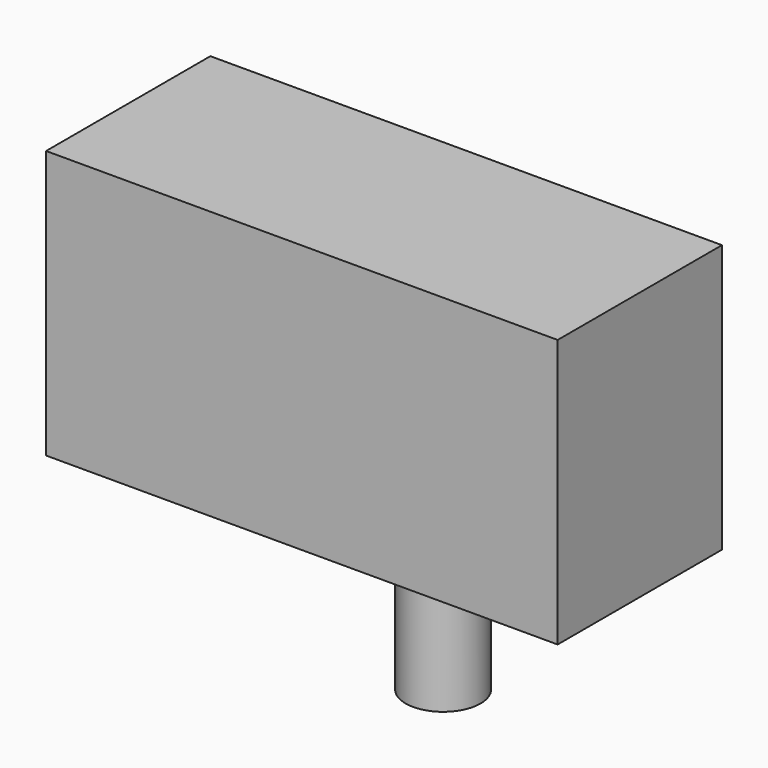
from build123d import *

# Parameters (mm, degrees)
F1_DEPTH = 58.928
F2_T     = -2.54
F3_R     = 10.754682
F4_DEPTH = 33.528
F5_DEPTH = 55.88
F6_T     = -2.54
F7_W     = 19.523971
F7_H     = 14.54727
F8_DEPTH = 31.496


with BuildPart() as f1:
    # F0 (on Front) → F1 (new body)
    with BuildSketch(Plane.XZ):
        with BuildLine():
            Line((73.406301, 60.773149), (-73.406301, 60.773149))
            Line((-73.406301, 60.773149), (-73.406301, -16.174272))
            Line((-73.406301, -16.174272), (-7.560753, -16.174272))
            ThreePointArc((-7.560753, -16.174272), (-0.957058, 0.04856), (5.646638, -16.174272))
            Line((5.646638, -16.174272), (73.406301, -16.174272))
            Line((73.406301, -16.174272), (73.406301, 60.773149))
        make_face()
        with BuildLine():
            ThreePointArc((5.646638, -16.174272), (-0.957058, 0.04856), (-7.560753, -16.174272))
            Line((-7.560753, -16.174272), (5.646638, -16.174272))
        make_face()
    extrude(amount=F1_DEPTH)

    # F2
    f2_openings = [f1.faces().sort_by_distance(p)[0] for p in [
        (0, 0, 22.299439),
    ]]
    offset(amount=F2_T, openings=f2_openings)

    # F3 (on face) → F4 (cut)
    with BuildSketch(Plane(origin=(0, 0, -16.174272), x_dir=(1, 0, 0), z_dir=(0, 0, -1))):
        with Locations((0, 8.262556)):
            Circle(F3_R)
    extrude(amount=-F4_DEPTH, mode=Mode.SUBTRACT)

    # F7 (on face) → F8 (cut)
    with BuildSketch(Plane(origin=(0, 0, -16.174272), x_dir=(1, 0, 0), z_dir=(0, 0, -1))):
        with Locations((42.206232, 34.741184)):
            Rectangle(F7_W, F7_H)
        with Locations((-42.206232, 34.741184)):
            Rectangle(F7_W, F7_H)
    extrude(amount=-F8_DEPTH, mode=Mode.SUBTRACT)


with BuildPart() as f5:
    # F3 (on face) → F5 (new body)
    with BuildSketch(Plane(origin=(0, 0, -16.174272), x_dir=(1, 0, 0), z_dir=(0, 0, -1))):
        with Locations((0, 8.262556)):
            Circle(F3_R)
    extrude(amount=F5_DEPTH)

    # F6
    f6_openings = [f5.faces().sort_by_distance(p)[0] for p in [
        (0, -8.262556, -72.054272),
    ]]
    offset(amount=F6_T, openings=f6_openings)


solid = Compound([f1.part, f5.part])
